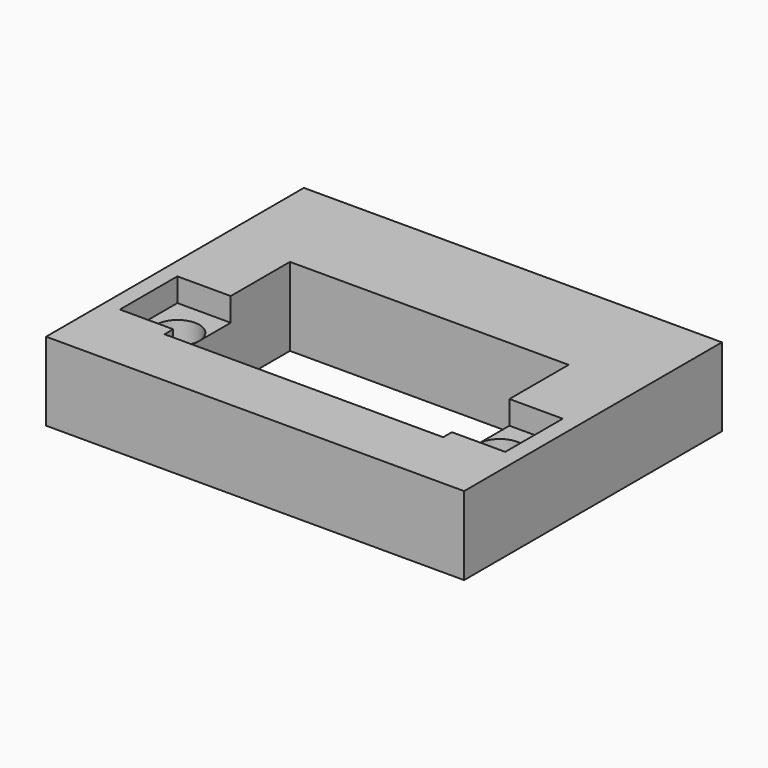
from build123d import *

# Parameters (mm, degrees)
BOX007_W        = 96
BOX007_H        = 74
BOX007_DEPTH    = 18
SKETCH047_R     = 1.75
POCKET015_DEPTH = 18.001
SKETCH048_W     = 64
SKETCH048_H     = 36
POCKET016_DEPTH = 18.001
SKETCH049_W     = 88.5
SKETCH049_H     = 16.5
POCKET017_DEPTH = 5.4
SKETCH050_R     = 5
POCKET018_DEPTH = 10


with BuildPart() as part:
    # Box007 → Box007 (new body)
    with BuildSketch(Plane(origin=(36, -80, 104), x_dir=(1, 0, 0), z_dir=(0, 0, 1))):
        with Locations((48, 37)):
            Rectangle(BOX007_W, BOX007_H)
    extrude(amount=BOX007_DEPTH)

    # Sketch047 → Pocket015 (cut, through all)
    with BuildSketch(Plane(origin=(36, -80, 122), x_dir=(1, 0, 0), z_dir=(0, 0, 1))):
        with Locations((11, 24)):
            Circle(SKETCH047_R)
        with Locations((85, 24)):
            Circle(SKETCH047_R)
    extrude(amount=-POCKET015_DEPTH, mode=Mode.SUBTRACT)

    # Sketch048 → Pocket016 (cut, through all)
    with BuildSketch(Plane(origin=(36, -80, 122), x_dir=(1, 0, 0), z_dir=(0, 0, 1))):
        with Locations((48, 32)):
            Rectangle(SKETCH048_W, SKETCH048_H)
    extrude(amount=-POCKET016_DEPTH, mode=Mode.SUBTRACT)

    # Sketch049 → Pocket017 (cut)
    with BuildSketch(Plane(origin=(36, -80, 122), x_dir=(1, 0, 0), z_dir=(0, 0, 1))):
        with Locations((48, 24.75)):
            Rectangle(SKETCH049_W, SKETCH049_H)
    extrude(amount=-POCKET017_DEPTH, mode=Mode.SUBTRACT)

    # Sketch050 → Pocket018 (cut)
    with BuildSketch(Plane(origin=(36, -80, 116.6), x_dir=(1, 0, 0), z_dir=(0, 0, 1))):
        with Locations((11, 24)):
            Circle(SKETCH050_R)
        with Locations((85, 24)):
            Circle(SKETCH050_R)
    extrude(amount=-POCKET018_DEPTH, mode=Mode.SUBTRACT)


solid = part.part
